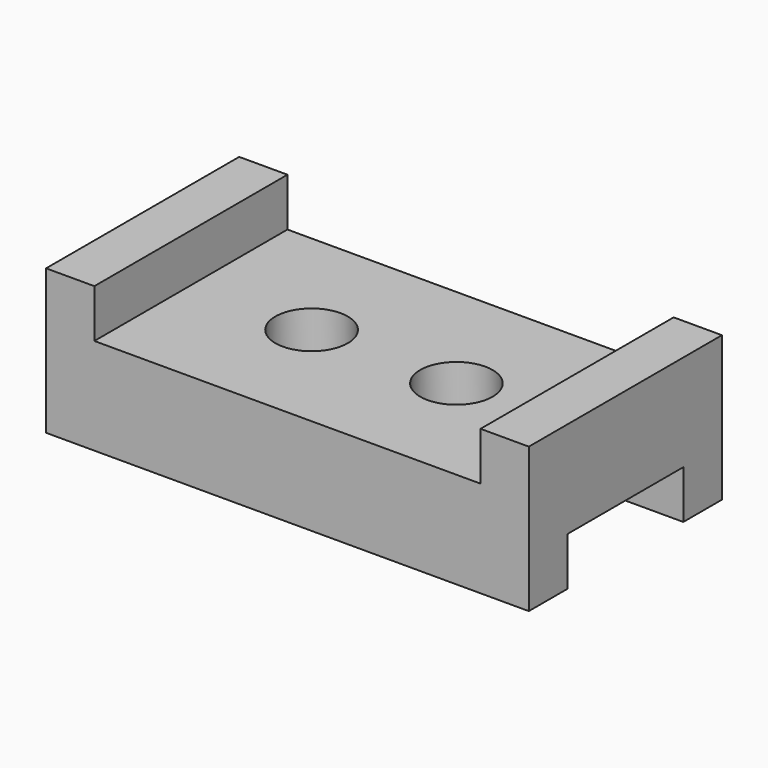
from build123d import *

# Parameters (mm, degrees)
F0_W     = 127
F0_H     = 38.1
F1_DEPTH = 63.5
F2_W     = 101.6
F2_H     = 12.7
F3_DEPTH = 63.501
F4_W     = 38.1
F4_H     = 12.7
F5_DEPTH = 127.001
F6_R     = 9.525
F7_DEPTH = 25.401


with BuildPart() as f1:
    # F0 (on Front) → F1 (new body)
    with BuildSketch(Plane.XZ):
        with Locations((3.012426, -9.64006)):
            Rectangle(F0_W, F0_H)
    extrude(amount=F1_DEPTH)

    # F2 (on face) → F3 (cut, through all)
    with BuildSketch(Plane.XZ.offset(63.5)):
        with Locations((3.012426, 3.05994)):
            Rectangle(F2_W, F2_H)
    extrude(amount=-F3_DEPTH, mode=Mode.SUBTRACT)

    # F4 (on face) → F5 (cut, through all)
    with BuildSketch(Plane.YZ.offset(66.512426)):
        with Locations((-31.75, -22.34006)):
            Rectangle(F4_W, F4_H)
    extrude(amount=-F5_DEPTH, mode=Mode.SUBTRACT)

    # F6 (on face) → F7 (cut, through all)
    with BuildSketch(Plane.XY.offset(-3.29006)):
        with Locations((-16.037574, -31.75)):
            Circle(F6_R)
        with Locations((22.062426, -31.75)):
            Circle(F6_R)
    extrude(amount=-F7_DEPTH, mode=Mode.SUBTRACT)


solid = f1.part
